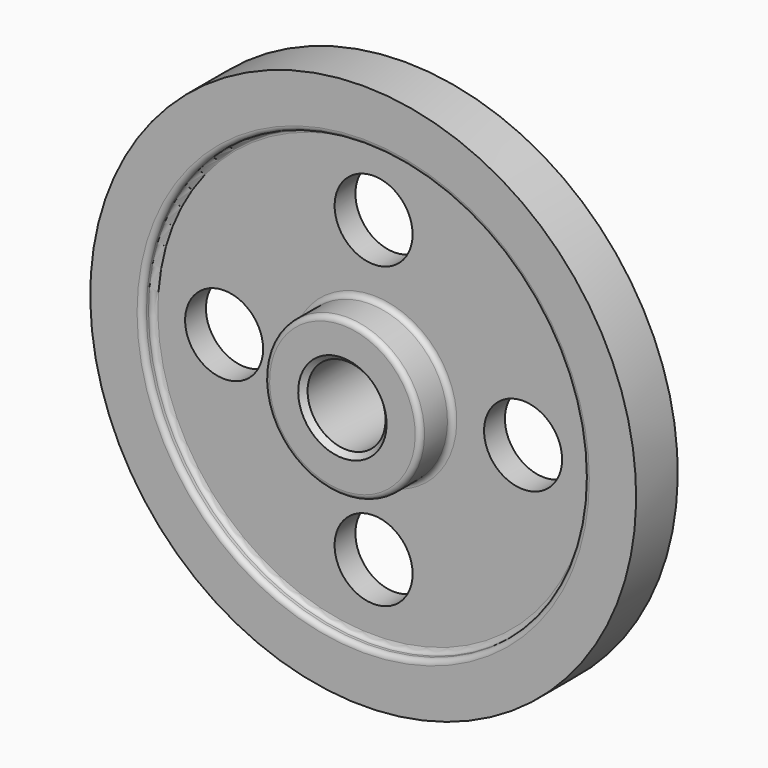
from build123d import *

# Parameters (mm, degrees)
F2_R     = 19.05
F3_DEPTH = 25.4
F4_R     = 2.54
F5_SIZE  = 2.54
F6_R     = 2.54


with BuildPart() as f1:
    # F0 (on Right) → F1 (revolve)
    with BuildSketch(Plane.YZ):
        Polygon((0, 133.35), (0, 19.05), (25.4, 19.05), (25.4, 38.1), (6.35, 38.1), (6.35, 107.95), (12.7, 107.95), (12.7, 133.35), align=None)
        Polygon((-25.4, 19.05), (0, 19.05), (0, 133.35), (-12.7, 133.35), (-12.7, 107.95), (-6.35, 107.95), (-6.35, 38.1), (-25.4, 38.1), align=None)
    revolve(axis=Axis((0, 12.7, 0), (0, 1, 0)))

    # F2 (on face) → F3 (cut)
    with BuildSketch(Plane.XZ.offset(6.35)):
        with Locations((-73.025, 0)):
            Circle(F2_R)
        with Locations((0, -73.025)):
            Circle(F2_R)
        with Locations((73.025, 0)):
            Circle(F2_R)
        with BuildLine():
            ThreePointArc((19.05, 73.025), (-13.4703841816, 86.4953841816), (0, 53.975))
            ThreePointArc((0, 53.975), (13.4703841816, 59.5546158184), (19.05, 73.025))
        make_face()
    extrude(amount=-F3_DEPTH, mode=Mode.SUBTRACT)

    # F4
    f4_edges = [f1.edges().sort_by_distance(p)[0] for p in [
        (0, -12.7, -107.95),
        (0, -6.35, -38.1),
        (0, -25.4, -38.1),
        (0, -15.875, 38.1),
        (0, -6.35, -107.95),
    ]]
    fillet(f4_edges, radius=F4_R)

    # F5
    f5_edges = [f1.edges().sort_by_distance(p)[0] for p in [
        (0, -25.4, -19.05),
        (0, 25.4, -19.05),
    ]]
    chamfer(f5_edges, length=F5_SIZE)

    # F6
    f6_edges = [f1.edges().sort_by_distance(p)[0] for p in [
        (0, 12.7, -107.95),
        (0, 6.35, -107.95),
        (0, 22.86, -19.05),
    ]]
    fillet(f6_edges, radius=F6_R)


solid = f1.part
